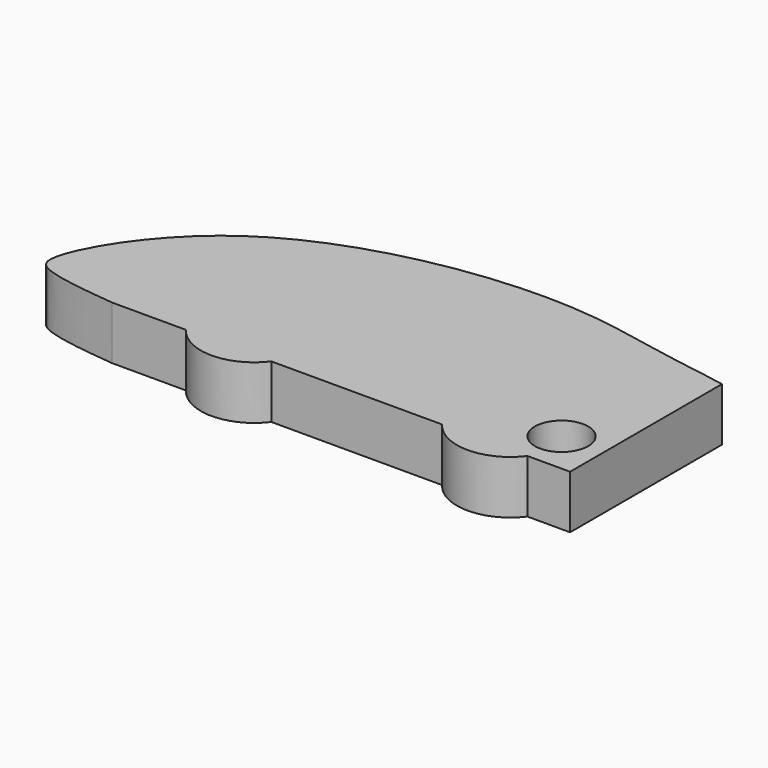
from build123d import *

# Parameters (mm, degrees)
F1_DEPTH = 5
F2_R     = 2.5
F3_DEPTH = 25


with BuildPart() as f1:
    # F0 (on Top) → F1 (new body)
    with BuildSketch(Plane.XY):
        with BuildLine():
            add(Edge.make_bspline(
                [(-3.7560267425, 5.4679430585), (-6.6723162522, 5.7819335327), (-9.5886057618, 6.0959240068), (-10.8297159947, 6.7931381317)],
                knots=[0, 0, 0, 0, 0.1296975267, 0.1296975267, 0.1296975267, 0.1296975267], degree=3))
            Line((-3.7560267425, 5.4679430585), (3.1702840053, 5.4679430585))
            ThreePointArc((3.1702840053, 5.4679430585), (5.5891451752, 13.2113595488), (12.1702840053, 8.4679430585))
            ThreePointArc((12.1702840053, 8.4679430585), (11.9137004956, 6.8868042284), (11.1702840053, 5.4679430585))
            Line((11.1702840053, 5.4679430585), (27.1702840053, 5.4679430585))
            ThreePointArc((27.1702840053, 5.4679430585), (29.5891451752, 13.2113595488), (36.1702840053, 8.4679430585))
            ThreePointArc((36.1702840053, 8.4679430585), (35.9137004956, 6.8868042284), (35.1702840053, 5.4679430585))
            Line((35.1702840053, 5.4679430585), (39.1702840053, 5.4679430585))
            Line((39.1702840053, 5.4679430585), (39.1702840053, 23.2558858789))
            add(Edge.make_bspline(
                [(34.2398635932, 24.0984679093), (35.9625511425, 23.8242252665), (37.6853259757, 23.5504939342), (39.1702840053, 23.2558858789)],
                knots=[0, 0, 0, 0, 0.3396060645, 0.3396060645, 0.3396060645, 0.3396060645], degree=3))
            add(Edge.make_bspline(
                [(-10.8297159947, 10.4498591763), (-9.6314304154, 13.0593896604), (-2.0960629039, 23.5532126687), (20.7373333416, 27.4436730756), (31.0811743268, 24.6046866842), (34.2398635932, 24.0984679093)],
                knots=[0.2363908115, 0.2363908115, 0.2363908115, 0.2363908115, 0.373599302, 0.6267749526, 0.7516559827, 0.7516559827, 0.7516559827, 0.7516559827], degree=3))
            Line((-10.8297159947, 10.4498591763), (-10.8297159947, 6.7931381317))
        make_face()
        with BuildLine():
            Line((11.1702840053, 5.4679430585), (3.1702840053, 5.4679430585))
            ThreePointArc((3.1702840053, 5.4679430585), (7.1702840053, 3.4679430585), (11.1702840053, 5.4679430585))
        make_face()
        with BuildLine():
            Line((35.1702840053, 5.4679430585), (27.1702840053, 5.4679430585))
            ThreePointArc((27.1702840053, 5.4679430585), (31.1702840053, 3.4679430585), (35.1702840053, 5.4679430585))
        make_face()
        with BuildLine():
            ThreePointArc((36.1702840053, 8.4679430585), (29.5891451752, 13.2113595488), (27.1702840053, 5.4679430585))
            Line((27.1702840053, 5.4679430585), (35.1702840053, 5.4679430585))
            ThreePointArc((35.1702840053, 5.4679430585), (35.9137004956, 6.8868042284), (36.1702840053, 8.4679430585))
        make_face()
        with BuildLine():
            ThreePointArc((12.1702840053, 8.4679430585), (5.5891451752, 13.2113595488), (3.1702840053, 5.4679430585))
            Line((3.1702840053, 5.4679430585), (11.1702840053, 5.4679430585))
            ThreePointArc((11.1702840053, 5.4679430585), (11.9137004956, 6.8868042284), (12.1702840053, 8.4679430585))
        make_face()
        with BuildLine():
            add(Edge.make_bspline(
                [(-10.8297159947, 6.7931381317), (-11.4357163821, 7.1335688352), (-11.7838258876, 7.8610481378), (-11.2084408317, 9.6251025204), (-10.8297159947, 10.4498591763)],
                knots=[0.1296975267, 0.1296975267, 0.1296975267, 0.1296975267, 0.1930253032, 0.2363908115, 0.2363908115, 0.2363908115, 0.2363908115], degree=3))
            Line((-10.8297159947, 6.7931381317), (-10.8297159947, 10.4498591763))
        make_face()
    extrude(amount=F1_DEPTH)

    # F2 (on face) → F3 (cut)
    with BuildSketch(Plane.XY.offset(5)):
        with Locations((35.1702840053, 9.4679430585)):
            Circle(F2_R)
    extrude(amount=-F3_DEPTH, mode=Mode.SUBTRACT)


solid = f1.part
